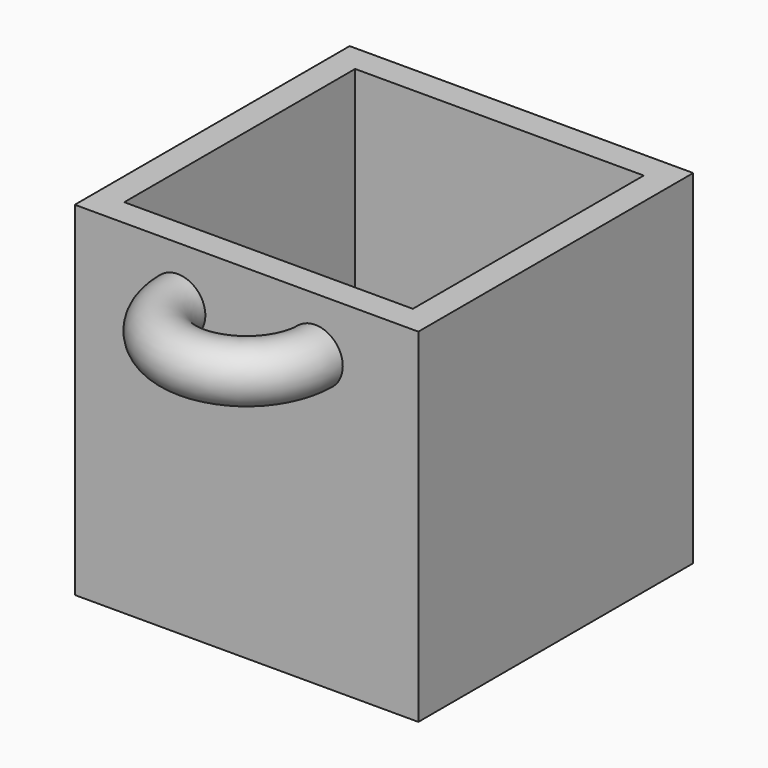
from build123d import *

# Parameters (mm, degrees)
BOX001_W     = 21
BOX001_H     = 21
BOX001_DEPTH = 24
TORUS_R      = 2
BOX_W        = 25
BOX_H        = 25
BOX_DEPTH    = 25


with BuildPart() as cube001:
    # Box001 → Box001 (new body)
    with BuildSketch(Plane(origin=(2, 2, 2), x_dir=(1, 0, 0), z_dir=(0, 0, 1))):
        with Locations((10.5, 10.5)):
            Rectangle(BOX001_W, BOX001_H)
    extrude(amount=BOX001_DEPTH)


with BuildPart() as torus:
    # Torus → Torus (revolve)
    with BuildSketch(Plane(origin=(12.5, 0, 21), x_dir=(1, 0, 0), z_dir=(0, -1, 0))):
        with Locations((5, 0)):
            Circle(TORUS_R)
    revolve(axis=Axis((12.5, 0, 21), (0, 0, 1)))


with BuildPart() as cut:
    # Box → Box (new body)
    with BuildSketch(Plane.XY):
        with Locations((12.5, 12.5)):
            Rectangle(BOX_W, BOX_H)
    extrude(amount=BOX_DEPTH)

    # Fusion: union Torus
    add(torus.part)

    # Cut: cut Cube001
    add(cube001.part, mode=Mode.SUBTRACT)


solid = cut.part
